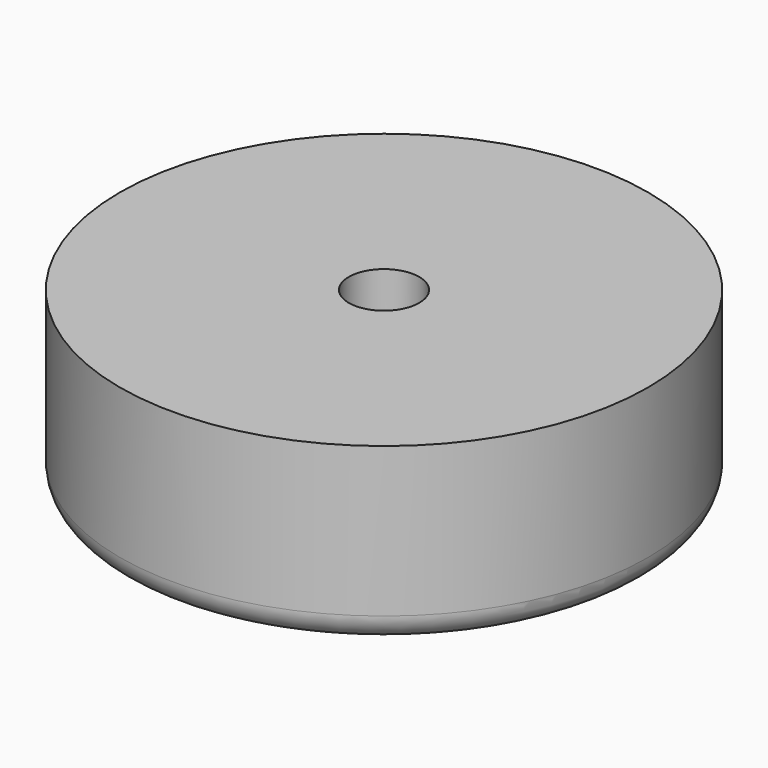
from build123d import *

# Parameters (mm, degrees)
F2_R = 1.5


with BuildPart() as f1:
    # F0 (on Front) → F1 (revolve)
    with BuildSketch(Plane.XZ):
        Polygon((15, 0), (2, 0), (2, -7), (0, -7), (0, -9), (8, -9), (10, -10), (15, -10), align=None)
    revolve(axis=Axis((0, 0, -4.5), (0, 0, 1)))

    # F2
    f2_edges = [f1.edges().sort_by_distance(p)[0] for p in [
        (-15, 0, -10),
    ]]
    fillet(f2_edges, radius=F2_R)


solid = f1.part
